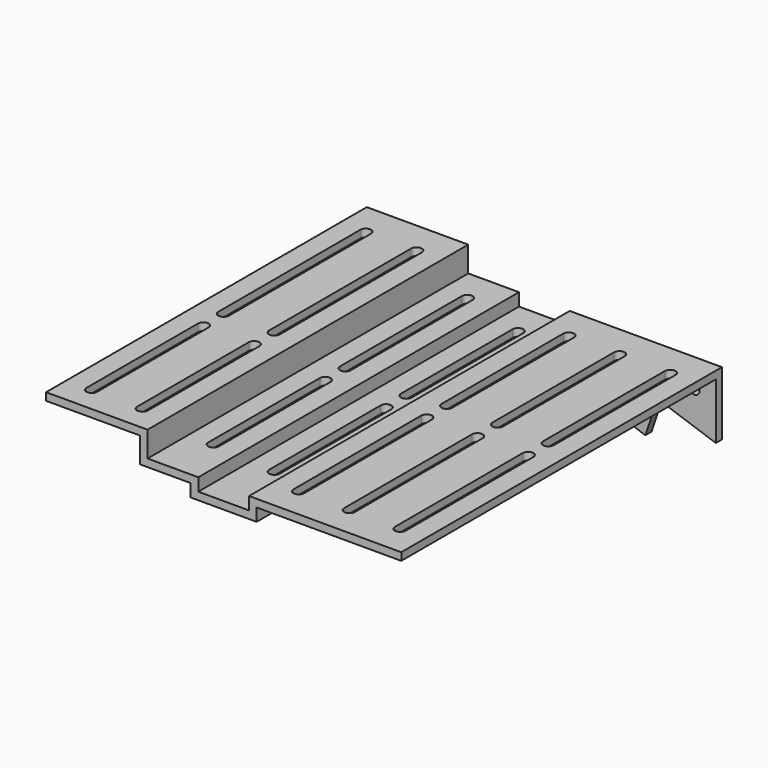
from build123d import *

# Parameters (mm, degrees)
PAD024_DEPTH         = 80
PAD024_DEPTH_BACK    = 78
SKETCH039_R          = 2.1
PAD025_DEPTH         = 3
POCKET015_DEPTH      = 26.4508304953
POCKET015_DEPTH_BACK = 15.001


with BuildPart() as part:
    # Sketch038 → Pad024 (new body, two sides)
    with BuildSketch(Plane.XZ) as pad024_sk:
        Polygon((0, 15), (40, 15), (40, 5), (60, 5), (60, 0), (80, 0), (80, 5), (140, 5), (140, 2), (83, 2), (83, -3), (57, -3), (57, 2), (37, 2), (37, 12), (0, 12), align=None)
    extrude(amount=PAD024_DEPTH)
    extrude(pad024_sk.sketch, amount=-PAD024_DEPTH_BACK)

    # Sketch039 (on Face17 of Pad024) → Pad025 (join)
    with BuildSketch(Plane(origin=(0, 78, 0), x_dir=(1, 0, 0), z_dir=(0, 1, 0))):
        Polygon((140, -5), (140, 20.112497453), (117.0808832189, 12.2596635501), (112.2188710769, 26.4498304953), (0, -12), (0, -15), (40, -15), (40, -5), (60, -5), (60, 0), (80, 0), (80, -5), align=None)
        with Locations((131.5386824304, 4)):
            Circle(SKETCH039_R, mode=Mode.SUBTRACT)
        with Locations((111.4048164409, 10.3148586933)):
            Circle(SKETCH039_R, mode=Mode.SUBTRACT)
        with Locations((108.1634750128, 19.7749699901)):
            Circle(SKETCH039_R, mode=Mode.SUBTRACT)
        with Locations((91.7780816016, 14.1608019521)):
            Circle(SKETCH039_R, mode=Mode.SUBTRACT)
        with Locations((101.5914490212, 12.2378303227)):
            Circle(SKETCH039_R, mode=Mode.SUBTRACT)
    extrude(amount=-PAD025_DEPTH)

    # Sketch048 → Pocket015 (cut, two sides)
    with BuildSketch(Plane.XY) as pocket015_sk:
        with BuildLine():
            ThreePointArc((7.9, -5), (10, -7.1), (12.1, -5))
            Line((12.1, -5), (12.1, 65))
            ThreePointArc((12.1, 65), (10, 67.1), (7.9, 65))
            Line((7.9, 65), (7.9, -5))
        make_face()
        with BuildLine():
            ThreePointArc((12.1, -15), (10, -12.9), (7.9, -15))
            Line((7.9, -15), (7.9, -70))
            ThreePointArc((7.9, -70), (10, -72.1), (12.1, -70))
            Line((12.1, -70), (12.1, -15))
        make_face()
        with BuildLine():
            ThreePointArc((27.9, -70), (30, -72.1), (32.1, -70))
            Line((32.1, -70), (32.1, -15))
            ThreePointArc((32.1, -15), (30, -12.9), (27.9, -15))
            Line((27.9, -15), (27.9, -70))
        make_face()
        with BuildLine():
            ThreePointArc((52.1, -5), (50, -2.9), (47.9, -5))
            Line((47.9, -5), (47.9, -60))
            ThreePointArc((47.9, -60), (50, -62.1), (52.1, -60))
            Line((52.1, -60), (52.1, -5))
        make_face()
        with BuildLine():
            ThreePointArc((67.9, -55), (70, -57.1), (72.1, -55))
            Line((72.1, -55), (72.1, 0))
            ThreePointArc((72.1, 0), (70, 2.1), (67.9, 0))
            Line((67.9, 0), (67.9, -55))
        make_face()
        with BuildLine():
            ThreePointArc((87.9, -68), (90, -70.1), (92.1, -68))
            Line((92.1, -68), (92.1, -5))
            ThreePointArc((92.1, -5), (90, -2.9), (87.9, -5))
            Line((87.9, -5), (87.9, -68))
        make_face()
        with BuildLine():
            ThreePointArc((112.1, -5), (110, -2.9), (107.9, -5))
            Line((107.9, -5), (107.9, -68))
            ThreePointArc((107.9, -68), (110, -70.1), (112.1, -68))
            Line((112.1, -68), (112.1, -5))
        make_face()
        with BuildLine():
            ThreePointArc((127.9, -68), (130, -70.1), (132.1, -68))
            Line((132.1, -68), (132.1, -5))
            ThreePointArc((132.1, -5), (130, -2.9), (127.9, -5))
            Line((127.9, -5), (127.9, -68))
        make_face()
        with BuildLine():
            ThreePointArc((127.9, 5), (130, 2.9), (132.1, 5))
            Line((132.1, 5), (132.1, 65))
            ThreePointArc((132.1, 65), (130, 67.1), (127.9, 65))
            Line((127.9, 65), (127.9, 5))
        make_face()
        with BuildLine():
            ThreePointArc((112.1, 65), (110, 67.1), (107.9, 65))
            Line((107.9, 65), (107.9, 5))
            ThreePointArc((107.9, 5), (110, 2.9), (112.1, 5))
            Line((112.1, 5), (112.1, 65))
        make_face()
        with BuildLine():
            ThreePointArc((87.9, 5), (90, 2.9), (92.1, 5))
            Line((92.1, 5), (92.1, 65))
            ThreePointArc((92.1, 65), (90, 67.1), (87.9, 65))
            Line((87.9, 65), (87.9, 5))
        make_face()
        with BuildLine():
            ThreePointArc((67.9, 10), (70, 7.9), (72.1, 10))
            Line((72.1, 10), (72.1, 65))
            ThreePointArc((72.1, 65), (70, 67.1), (67.9, 65))
            Line((67.9, 65), (67.9, 10))
        make_face()
        with BuildLine():
            ThreePointArc((47.9, 5), (50, 2.9), (52.1, 5))
            Line((52.1, 5), (52.1, 65))
            ThreePointArc((52.1, 65), (50, 67.1), (47.9, 65))
            Line((47.9, 65), (47.9, 5))
        make_face()
        with BuildLine():
            ThreePointArc((27.9, -5), (30, -7.1), (32.1, -5))
            Line((32.1, -5), (32.1, 65))
            ThreePointArc((32.1, 65), (30, 67.1), (27.9, 65))
            Line((27.9, 65), (27.9, -5))
        make_face()
    extrude(amount=-POCKET015_DEPTH, mode=Mode.SUBTRACT)
    extrude(pocket015_sk.sketch, amount=POCKET015_DEPTH_BACK, mode=Mode.SUBTRACT)


solid = part.part
